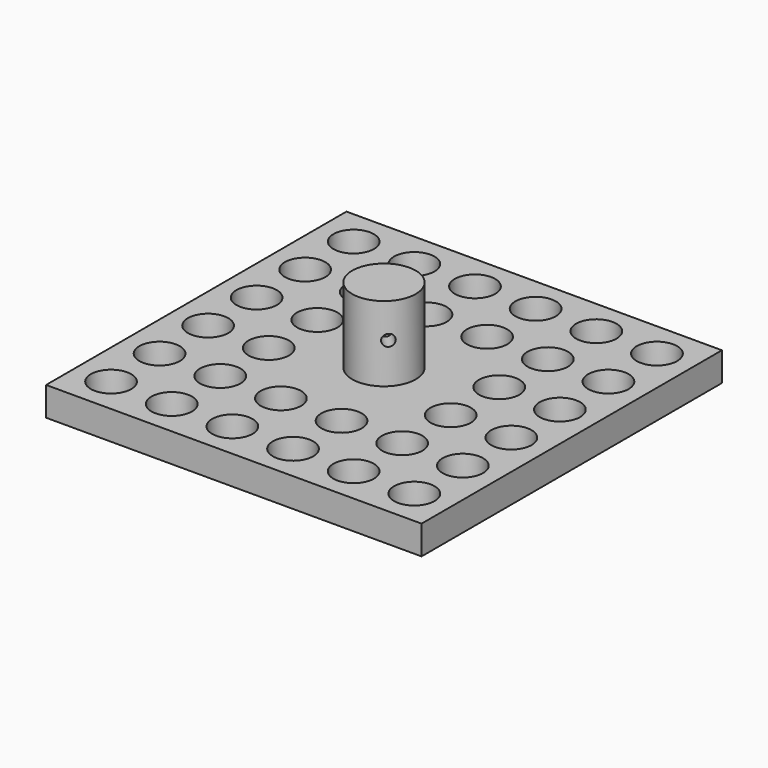
from build123d import *

# Parameters (mm, degrees)
CYLINDER028_R               = 1
CYLINDER028_DEPTH           = 15
CYLINDER028_ROLL_ANGLE      = 90.000024
CYLINDER028_PITCH_ANGLE     = -1e-05
CYLINDER028_PLACEMENT_ANGLE = 45.000049
CYLINDER027_R               = 5.5
CYLINDER027_DEPTH           = 3
CYLINDER020_R               = 2.5
CYLINDER020_DEPTH           = 60
CYLINDER019_R               = 5.5
CYLINDER019_DEPTH           = 10
BOX001_W                    = 65
BOX001_H                    = 65
BOX001_DEPTH                = 5


with BuildPart() as kegel025:
    # Cone025 → Cone025 (revolve)
    with BuildSketch(Plane(origin=(-15.75, -26.25, 78), x_dir=(1, 0, 0), z_dir=(0, -1, 0))):
        Polygon((0, 0), (3.25, 0), (3.5, 5), (0, 5), align=None)
    revolve(axis=Axis((-15.75, -26.25, 78), (0, 0, 1)))


with BuildPart() as kegel026:
    # Cone026 → Cone026 (revolve)
    with BuildSketch(Plane(origin=(-26.25, -26.25, 78), x_dir=(1, 0, 0), z_dir=(0, -1, 0))):
        Polygon((0, 0), (3.25, 0), (3.5, 5), (0, 5), align=None)
    revolve(axis=Axis((-26.25, -26.25, 78), (0, 0, 1)))


with BuildPart() as kegel027:
    # Cone027 → Cone027 (revolve)
    with BuildSketch(Plane(origin=(-26.25, -15.75, 78), x_dir=(1, 0, 0), z_dir=(0, -1, 0))):
        Polygon((0, 0), (3.25, 0), (3.5, 5), (0, 5), align=None)
    revolve(axis=Axis((-26.25, -15.75, 78), (0, 0, 1)))


with BuildPart() as kegel028:
    # Cone028 → Cone028 (revolve)
    with BuildSketch(Plane(origin=(-26.25, -5.25, 78), x_dir=(1, 0, 0), z_dir=(0, -1, 0))):
        Polygon((0, 0), (3.25, 0), (3.5, 5), (0, 5), align=None)
    revolve(axis=Axis((-26.25, -5.25, 78), (0, 0, 1)))


with BuildPart() as kegel029:
    # Cone029 → Cone029 (revolve)
    with BuildSketch(Plane(origin=(-26.25, 5.25, 78), x_dir=(1, 0, 0), z_dir=(0, -1, 0))):
        Polygon((0, 0), (3.25, 0), (3.5, 5), (0, 5), align=None)
    revolve(axis=Axis((-26.25, 5.25, 78), (0, 0, 1)))


with BuildPart() as kegel030:
    # Cone030 → Cone030 (revolve)
    with BuildSketch(Plane(origin=(-26.25, 15.75, 78), x_dir=(1, 0, 0), z_dir=(0, -1, 0))):
        Polygon((0, 0), (3.25, 0), (3.5, 5), (0, 5), align=None)
    revolve(axis=Axis((-26.25, 15.75, 78), (0, 0, 1)))


with BuildPart() as kegel031:
    # Cone031 → Cone031 (revolve)
    with BuildSketch(Plane(origin=(-26.25, 26.25, 78), x_dir=(1, 0, 0), z_dir=(0, -1, 0))):
        Polygon((0, 0), (3.25, 0), (3.5, 5), (0, 5), align=None)
    revolve(axis=Axis((-26.25, 26.25, 78), (0, 0, 1)))


with BuildPart() as kegel024:
    # Cone024 → Cone024 (revolve)
    with BuildSketch(Plane(origin=(-5.25, -26.25, 78), x_dir=(1, 0, 0), z_dir=(0, -1, 0))):
        Polygon((0, 0), (3.25, 0), (3.5, 5), (0, 5), align=None)
    revolve(axis=Axis((-5.25, -26.25, 78), (0, 0, 1)))


with BuildPart() as zylinder026:
    # Cylinder028 → Cylinder028 (new body)
    with BuildSketch(Plane.XY):
        Circle(CYLINDER028_R)
    extrude(amount=CYLINDER028_DEPTH)


with BuildPart() as zylinder026_1:
    # Cylinder028 roll: moved
    add(zylinder026.part.rotate(Axis((0, 0, 0), (1, 0, 0)), CYLINDER028_ROLL_ANGLE))


with BuildPart() as zylinder026_2:
    # Cylinder028 pitch: moved
    add(zylinder026_1.part.rotate(Axis((0, 0, 0), (0, 1, 0)), CYLINDER028_PITCH_ANGLE))


with BuildPart() as zylinder026_3:
    # Cylinder028 placement: moved
    add(zylinder026_2.part.moved(Location((-6, 6, 90))).rotate(Axis((-6, 6, 90), (0, 0, 1)), CYLINDER028_PLACEMENT_ANGLE))


with BuildPart() as zylinder025:
    # Cylinder027 → Cylinder027 (new body)
    with BuildSketch(Plane.XY.offset(93)):
        Circle(CYLINDER027_R)
    extrude(amount=CYLINDER027_DEPTH)


with BuildPart() as spindel001:
    # Cylinder020 → Cylinder020 (new body)
    with BuildSketch(Plane.XY.offset(33)):
        Circle(CYLINDER020_R)
    extrude(amount=CYLINDER020_DEPTH)


with BuildPart() as zylinder018:
    # Cylinder019 → Cylinder019 (new body)
    with BuildSketch(Plane.XY.offset(83)):
        Circle(CYLINDER019_R)
    extrude(amount=CYLINDER019_DEPTH)


with BuildPart() as kegel001:
    # Cone001 → Cone001 (revolve)
    with BuildSketch(Plane(origin=(26.25, 15.75, 78), x_dir=(1, 0, 0), z_dir=(0, -1, 0))):
        Polygon((0, 0), (3.25, 0), (3.5, 5), (0, 5), align=None)
    revolve(axis=Axis((26.25, 15.75, 78), (0, 0, 1)))


with BuildPart() as kegel002:
    # Cone002 → Cone002 (revolve)
    with BuildSketch(Plane(origin=(26.25, 5.25, 78), x_dir=(1, 0, 0), z_dir=(0, -1, 0))):
        Polygon((0, 0), (3.25, 0), (3.5, 5), (0, 5), align=None)
    revolve(axis=Axis((26.25, 5.25, 78), (0, 0, 1)))


with BuildPart() as kegel003:
    # Cone003 → Cone003 (revolve)
    with BuildSketch(Plane(origin=(26.25, -5.25, 78), x_dir=(1, 0, 0), z_dir=(0, -1, 0))):
        Polygon((0, 0), (3.25, 0), (3.5, 5), (0, 5), align=None)
    revolve(axis=Axis((26.25, -5.25, 78), (0, 0, 1)))


with BuildPart() as kegel004:
    # Cone004 → Cone004 (revolve)
    with BuildSketch(Plane(origin=(15.75, -15.75, 78), x_dir=(1, 0, 0), z_dir=(0, -1, 0))):
        Polygon((0, 0), (3.25, 0), (3.5, 5), (0, 5), align=None)
    revolve(axis=Axis((15.75, -15.75, 78), (0, 0, 1)))


with BuildPart() as kegel005:
    # Cone005 → Cone005 (revolve)
    with BuildSketch(Plane(origin=(26.25, -15.75, 78), x_dir=(1, 0, 0), z_dir=(0, -1, 0))):
        Polygon((0, 0), (3.25, 0), (3.5, 5), (0, 5), align=None)
    revolve(axis=Axis((26.25, -15.75, 78), (0, 0, 1)))


with BuildPart() as kegel006:
    # Cone006 → Cone006 (revolve)
    with BuildSketch(Plane(origin=(15.75, -5.25, 78), x_dir=(1, 0, 0), z_dir=(0, -1, 0))):
        Polygon((0, 0), (3.25, 0), (3.5, 5), (0, 5), align=None)
    revolve(axis=Axis((15.75, -5.25, 78), (0, 0, 1)))


with BuildPart() as kegel007:
    # Cone007 → Cone007 (revolve)
    with BuildSketch(Plane(origin=(15.75, 5.25, 78), x_dir=(1, 0, 0), z_dir=(0, -1, 0))):
        Polygon((0, 0), (3.25, 0), (3.5, 5), (0, 5), align=None)
    revolve(axis=Axis((15.75, 5.25, 78), (0, 0, 1)))


with BuildPart() as kegel008:
    # Cone008 → Cone008 (revolve)
    with BuildSketch(Plane(origin=(15.75, 15.75, 78), x_dir=(1, 0, 0), z_dir=(0, -1, 0))):
        Polygon((0, 0), (3.25, 0), (3.5, 5), (0, 5), align=None)
    revolve(axis=Axis((15.75, 15.75, 78), (0, 0, 1)))


with BuildPart() as kegel009:
    # Cone009 → Cone009 (revolve)
    with BuildSketch(Plane(origin=(15.75, 26.25, 78), x_dir=(1, 0, 0), z_dir=(0, -1, 0))):
        Polygon((0, 0), (3.25, 0), (3.5, 5), (0, 5), align=None)
    revolve(axis=Axis((15.75, 26.25, 78), (0, 0, 1)))


with BuildPart() as kegel010:
    # Cone010 → Cone010 (revolve)
    with BuildSketch(Plane(origin=(5.25, -15.75, 78), x_dir=(1, 0, 0), z_dir=(0, -1, 0))):
        Polygon((0, 0), (3.25, 0), (3.5, 5), (0, 5), align=None)
    revolve(axis=Axis((5.25, -15.75, 78), (0, 0, 1)))


with BuildPart() as kegel011:
    # Cone011 → Cone011 (revolve)
    with BuildSketch(Plane(origin=(-5.25, -15.75, 78), x_dir=(1, 0, 0), z_dir=(0, -1, 0))):
        Polygon((0, 0), (3.25, 0), (3.5, 5), (0, 5), align=None)
    revolve(axis=Axis((-5.25, -15.75, 78), (0, 0, 1)))


with BuildPart() as kegel012:
    # Cone012 → Cone012 (revolve)
    with BuildSketch(Plane(origin=(-15.75, -15.75, 78), x_dir=(1, 0, 0), z_dir=(0, -1, 0))):
        Polygon((0, 0), (3.25, 0), (3.5, 5), (0, 5), align=None)
    revolve(axis=Axis((-15.75, -15.75, 78), (0, 0, 1)))


with BuildPart() as kegel013:
    # Cone013 → Cone013 (revolve)
    with BuildSketch(Plane(origin=(-15.75, -5.25, 78), x_dir=(1, 0, 0), z_dir=(0, -1, 0))):
        Polygon((0, 0), (3.25, 0), (3.5, 5), (0, 5), align=None)
    revolve(axis=Axis((-15.75, -5.25, 78), (0, 0, 1)))


with BuildPart() as kegel014:
    # Cone014 → Cone014 (revolve)
    with BuildSketch(Plane(origin=(-15.75, 5.25, 78), x_dir=(1, 0, 0), z_dir=(0, -1, 0))):
        Polygon((0, 0), (3.25, 0), (3.5, 5), (0, 5), align=None)
    revolve(axis=Axis((-15.75, 5.25, 78), (0, 0, 1)))


with BuildPart() as kegel015:
    # Cone015 → Cone015 (revolve)
    with BuildSketch(Plane(origin=(-15.75, 15.75, 78), x_dir=(1, 0, 0), z_dir=(0, -1, 0))):
        Polygon((0, 0), (3.25, 0), (3.5, 5), (0, 5), align=None)
    revolve(axis=Axis((-15.75, 15.75, 78), (0, 0, 1)))


with BuildPart() as kegel016:
    # Cone016 → Cone016 (revolve)
    with BuildSketch(Plane(origin=(-15.75, 26.25, 78), x_dir=(1, 0, 0), z_dir=(0, -1, 0))):
        Polygon((0, 0), (3.25, 0), (3.5, 5), (0, 5), align=None)
    revolve(axis=Axis((-15.75, 26.25, 78), (0, 0, 1)))


with BuildPart() as kegel017:
    # Cone017 → Cone017 (revolve)
    with BuildSketch(Plane(origin=(-5.25, 26.25, 78), x_dir=(1, 0, 0), z_dir=(0, -1, 0))):
        Polygon((0, 0), (3.25, 0), (3.5, 5), (0, 5), align=None)
    revolve(axis=Axis((-5.25, 26.25, 78), (0, 0, 1)))


with BuildPart() as kegel018:
    # Cone018 → Cone018 (revolve)
    with BuildSketch(Plane(origin=(5.25, 26.25, 78), x_dir=(1, 0, 0), z_dir=(0, -1, 0))):
        Polygon((0, 0), (3.25, 0), (3.5, 5), (0, 5), align=None)
    revolve(axis=Axis((5.25, 26.25, 78), (0, 0, 1)))


with BuildPart() as kegel019:
    # Cone019 → Cone019 (revolve)
    with BuildSketch(Plane(origin=(-5.25, 15.75, 78), x_dir=(1, 0, 0), z_dir=(0, -1, 0))):
        Polygon((0, 0), (3.25, 0), (3.5, 5), (0, 5), align=None)
    revolve(axis=Axis((-5.25, 15.75, 78), (0, 0, 1)))


with BuildPart() as kegel020:
    # Cone020 → Cone020 (revolve)
    with BuildSketch(Plane(origin=(5.25, 15.75, 78), x_dir=(1, 0, 0), z_dir=(0, -1, 0))):
        Polygon((0, 0), (3.25, 0), (3.5, 5), (0, 5), align=None)
    revolve(axis=Axis((5.25, 15.75, 78), (0, 0, 1)))


with BuildPart() as kegel021:
    # Cone021 → Cone021 (revolve)
    with BuildSketch(Plane(origin=(5.25, -26.25, 78), x_dir=(1, 0, 0), z_dir=(0, -1, 0))):
        Polygon((0, 0), (3.25, 0), (3.5, 5), (0, 5), align=None)
    revolve(axis=Axis((5.25, -26.25, 78), (0, 0, 1)))


with BuildPart() as kegel022:
    # Cone022 → Cone022 (revolve)
    with BuildSketch(Plane(origin=(15.75, -26.25, 78), x_dir=(1, 0, 0), z_dir=(0, -1, 0))):
        Polygon((0, 0), (3.25, 0), (3.5, 5), (0, 5), align=None)
    revolve(axis=Axis((15.75, -26.25, 78), (0, 0, 1)))


with BuildPart() as kegel023:
    # Cone023 → Cone023 (revolve)
    with BuildSketch(Plane(origin=(26.25, -26.25, 78), x_dir=(1, 0, 0), z_dir=(0, -1, 0))):
        Polygon((0, 0), (3.25, 0), (3.5, 5), (0, 5), align=None)
    revolve(axis=Axis((26.25, -26.25, 78), (0, 0, 1)))


with BuildPart() as kegel:
    # Cone → Cone (revolve)
    with BuildSketch(Plane(origin=(26.25, 26.25, 78), x_dir=(1, 0, 0), z_dir=(0, -1, 0))):
        Polygon((0, 0), (3.25, 0), (3.5, 5), (0, 5), align=None)
    revolve(axis=Axis((26.25, 26.25, 78), (0, 0, 1)))


with BuildPart() as top001:
    # Box001 → Box001 (new body)
    with BuildSketch(Plane(origin=(-32.5, -32.5, 78), x_dir=(1, 0, 0), z_dir=(0, 0, 1))):
        with Locations((32.5, 32.5)):
            Rectangle(BOX001_W, BOX001_H)
    extrude(amount=BOX001_DEPTH)

    # Cut008: cut Kegel
    add(kegel.part, mode=Mode.SUBTRACT)

    # Cut009: cut Kegel023
    add(kegel023.part, mode=Mode.SUBTRACT)

    # Cut010: cut Kegel022
    add(kegel022.part, mode=Mode.SUBTRACT)

    # Cut011: cut Kegel021
    add(kegel021.part, mode=Mode.SUBTRACT)

    # Cut012: cut Kegel020
    add(kegel020.part, mode=Mode.SUBTRACT)

    # Cut013: cut Kegel019
    add(kegel019.part, mode=Mode.SUBTRACT)

    # Cut014: cut Kegel018
    add(kegel018.part, mode=Mode.SUBTRACT)

    # Cut015: cut Kegel017
    add(kegel017.part, mode=Mode.SUBTRACT)

    # Cut016: cut Kegel016
    add(kegel016.part, mode=Mode.SUBTRACT)

    # Cut017: cut Kegel015
    add(kegel015.part, mode=Mode.SUBTRACT)

    # Cut018: cut Kegel014
    add(kegel014.part, mode=Mode.SUBTRACT)

    # Cut019: cut Kegel013
    add(kegel013.part, mode=Mode.SUBTRACT)

    # Cut020: cut Kegel012
    add(kegel012.part, mode=Mode.SUBTRACT)

    # Cut021: cut Kegel011
    add(kegel011.part, mode=Mode.SUBTRACT)

    # Cut022: cut Kegel010
    add(kegel010.part, mode=Mode.SUBTRACT)

    # Cut023: cut Kegel009
    add(kegel009.part, mode=Mode.SUBTRACT)

    # Cut024: cut Kegel008
    add(kegel008.part, mode=Mode.SUBTRACT)

    # Cut025: cut Kegel007
    add(kegel007.part, mode=Mode.SUBTRACT)

    # Cut026: cut Kegel006
    add(kegel006.part, mode=Mode.SUBTRACT)

    # Cut027: cut Kegel005
    add(kegel005.part, mode=Mode.SUBTRACT)

    # Cut028: cut Kegel004
    add(kegel004.part, mode=Mode.SUBTRACT)

    # Cut029: cut Kegel003
    add(kegel003.part, mode=Mode.SUBTRACT)

    # Cut030: cut Kegel002
    add(kegel002.part, mode=Mode.SUBTRACT)

    # Cut031: cut Kegel001
    add(kegel001.part, mode=Mode.SUBTRACT)

    # Fusion: union Zylinder018
    add(zylinder018.part)

    # Cut032: cut Spindel001
    add(spindel001.part, mode=Mode.SUBTRACT)

    # Fusion002: union Zylinder025
    add(zylinder025.part)

    # Cut042: cut Zylinder026
    add(zylinder026_3.part, mode=Mode.SUBTRACT)

    # Cut048: cut Kegel024
    add(kegel024.part, mode=Mode.SUBTRACT)

    # Cut049: cut Kegel031
    add(kegel031.part, mode=Mode.SUBTRACT)

    # Cut050: cut Kegel030
    add(kegel030.part, mode=Mode.SUBTRACT)

    # Cut051: cut Kegel029
    add(kegel029.part, mode=Mode.SUBTRACT)

    # Cut052: cut Kegel028
    add(kegel028.part, mode=Mode.SUBTRACT)

    # Cut053: cut Kegel027
    add(kegel027.part, mode=Mode.SUBTRACT)

    # Cut054: cut Kegel026
    add(kegel026.part, mode=Mode.SUBTRACT)

    # Cut055: cut Kegel025
    add(kegel025.part, mode=Mode.SUBTRACT)


solid = top001.part
